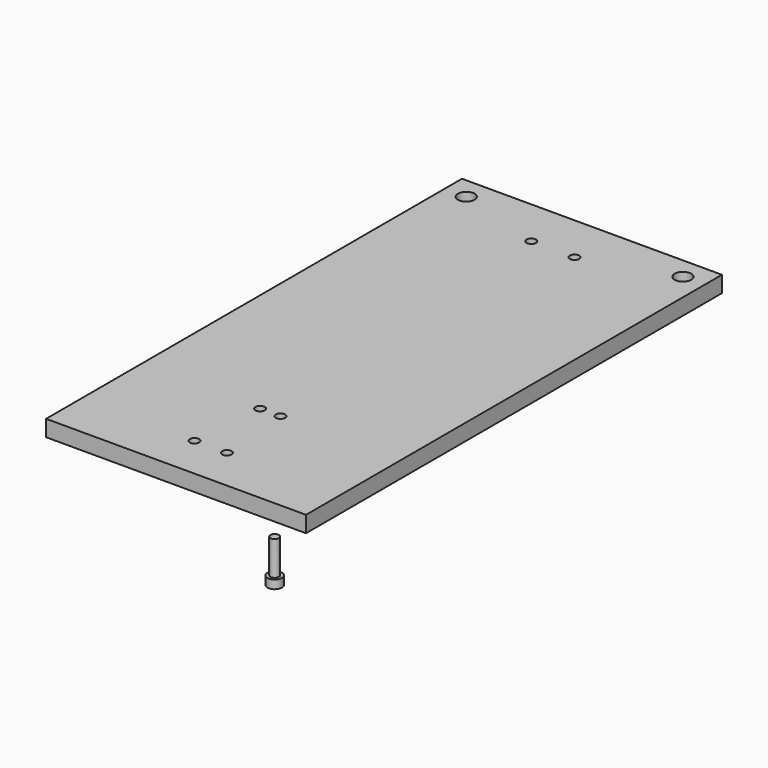
from build123d import *

# Parameters (mm, degrees)
F0_W            = 152.4
F0_H            = 317.5
F1_DEPTH        = 9.525
F3_D            = 5.5
F3_CBORE_D      = 9.75
F3_CBORE_DEPTH  = 5
F4_DEPTH        = 12.7
F5_ANGLE        = 180
F6_R            = 4.25
F7_DEPTH        = 5
F8_R            = 2.5
F9_DEPTH        = 20
F11_DEPTH       = 4
F13_D           = 5.5
F13_CBORE_D     = 9.75
F13_CBORE_DEPTH = 5


with BuildPart() as f1:
    # F0 (on Top) → F1 (new body)
    with BuildSketch(Plane.XY):
        with Locations((76.2, 158.75)):
            Rectangle(F0_W, F0_H)
    extrude(amount=F1_DEPTH)

    # F3 (through all)
    with Locations(Plane.XY.offset(9.525)):
        with Locations((70.246875, 81.75625), (82.153125, 81.75625), (66.675, 38.1), (85.725, 38.1), (88.9, 288.925), (63.5, 288.925)):
            CounterBoreHole(F3_D / 2, F3_CBORE_D / 2, F3_CBORE_DEPTH)

    # F4 (cut): a face of the model
    f4_faces = [f1.faces().sort_by_distance(p)[0] for p in [
        (76.2, 0, 4.7625),
    ]]
    extrude(f4_faces, amount=-F4_DEPTH, mode=Mode.SUBTRACT)


with BuildPart() as f1_1:
    # F5: moved
    add(f1.part.rotate(Axis((0, 165.1, 0), (0, 1, 0)), F5_ANGLE))

    # F13 (through all)
    with Locations(Plane.XY):
        with Locations((-139.7, 304.8), (-12.7, 304.8)):
            CounterBoreHole(F13_D / 2, F13_CBORE_D / 2, F13_CBORE_DEPTH)


with BuildPart() as f7:
    # F6 (on Top) → F7 (new body)
    with BuildSketch(Plane.XY):
        with Locations((32.274492085, -50.5946092308)):
            Circle(F6_R)
    extrude(amount=F7_DEPTH)

    # F8 (on face) → F9 (join)
    with BuildSketch(Plane.XY.offset(5)):
        with Locations((32.274492085, -50.5946092308)):
            Circle(F8_R)
    extrude(amount=F9_DEPTH)

    # F10 (on face) → F11 (cut)
    with BuildSketch(Plane(origin=(0, 0, 0), x_dir=(1, 0, 0), z_dir=(0, 0, -1))):
        Polygon((34.274492085, 49.4399086924), (34.274492085, 51.7493097691), (32.274492085, 52.9040103075), (30.274492085, 51.7493097691), (30.274492085, 49.4399086924), (32.274492085, 48.285208154), align=None)
    extrude(amount=-F11_DEPTH, mode=Mode.SUBTRACT)


solid = Compound([f1_1.part, f7.part])
